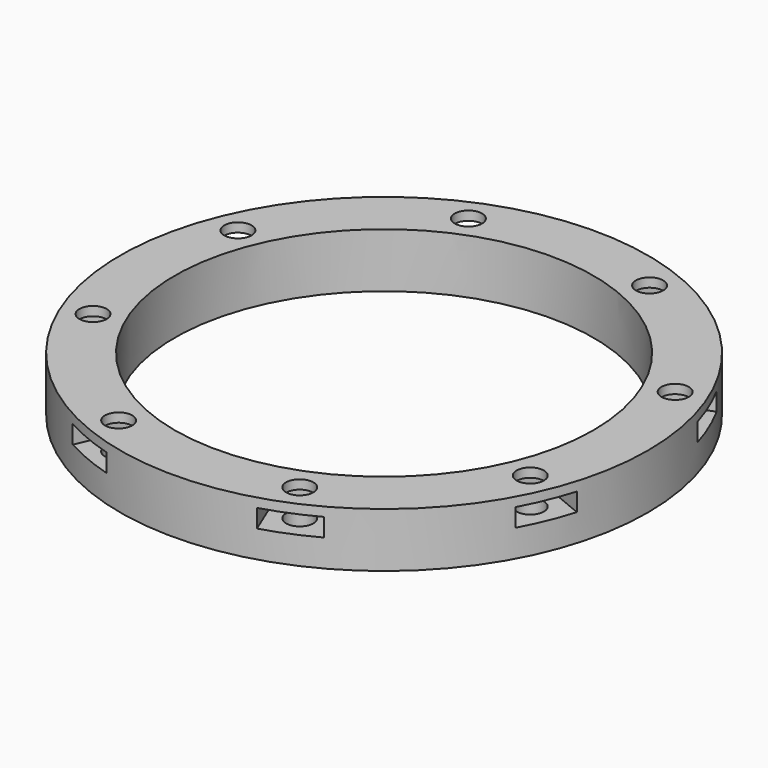
from build123d import *

# Parameters (mm, degrees)
BOX345_W                    = 6
BOX345_H                    = 6
BOX345_DEPTH                = 2
BOX341_W                    = 6
BOX341_H                    = 6
BOX341_DEPTH                = 2
BOX341_PLACEMENT_ANGLE      = 135
BOX346_W                    = 6
BOX346_H                    = 6
BOX346_DEPTH                = 2
BOX343_W                    = 6
BOX343_H                    = 6
BOX343_DEPTH                = 2
BOX343_PLACEMENT_ANGLE      = 225
BOX347_W                    = 6
BOX347_H                    = 6
BOX347_DEPTH                = 2
BOX344_W                    = 6
BOX344_H                    = 6
BOX344_DEPTH                = 2
BOX344_PLACEMENT_ANGLE      = 45
BOX340_W                    = 6
BOX340_H                    = 6
BOX340_DEPTH                = 2
BOX342_W                    = 6
BOX342_H                    = 6
BOX342_DEPTH                = 2
BOX342_PLACEMENT_ANGLE      = 45
COMPOUND569_PLACEMENT_ANGLE = 22.5
CYLINDER907_R               = 1.5
CYLINDER907_DEPTH           = 15
CYLINDER907_PLACEMENT_ANGLE = 45
CYLINDER906_R               = 1.5
CYLINDER906_DEPTH           = 15
CYLINDER905_R               = 1.5
CYLINDER905_DEPTH           = 15
CYLINDER905_PLACEMENT_ANGLE = 135
CYLINDER910_R               = 1.5
CYLINDER910_DEPTH           = 15
CYLINDER911_R               = 1.5
CYLINDER911_DEPTH           = 15
CYLINDER911_PLACEMENT_ANGLE = 225
CYLINDER912_R               = 1.5
CYLINDER912_DEPTH           = 15
CYLINDER908_R               = 1.5
CYLINDER908_DEPTH           = 15
CYLINDER908_PLACEMENT_ANGLE = 45
CYLINDER909_R               = 1.5
CYLINDER909_DEPTH           = 15
COMPOUND568_PLACEMENT_ANGLE = 22.5
TUBE010_R                   = 29
TUBE010_R_2                 = 23
TUBE010_DEPTH               = 6


with BuildPart() as krychle345:
    # Box345 → Box345 (new body)
    with BuildSketch(Plane(origin=(-23, -3, -13), x_dir=(0, 1, 0), z_dir=(0, 0, 1))):
        with Locations((3, 3)):
            Rectangle(BOX345_W, BOX345_H)
    extrude(amount=BOX345_DEPTH)


with BuildPart() as krychle341:
    # Box341 → Box341 (new body)
    with BuildSketch(Plane.XY):
        with Locations((3, 3)):
            Rectangle(BOX341_W, BOX341_H)
    extrude(amount=BOX341_DEPTH)


with BuildPart() as krychle341_1:
    # Box341 placement: moved
    add(krychle341.part.moved(Location((-14.142136, -18.384776, -13))).rotate(Axis((-14.142136, -18.384776, -13), (0, 0, 1)), BOX341_PLACEMENT_ANGLE))


with BuildPart() as krychle346:
    # Box346 → Box346 (new body)
    with BuildSketch(Plane(origin=(3, -23, -13), x_dir=(-1, 0, 0), z_dir=(0, 0, 1))):
        with Locations((3, 3)):
            Rectangle(BOX346_W, BOX346_H)
    extrude(amount=BOX346_DEPTH)


with BuildPart() as krychle343:
    # Box343 → Box343 (new body)
    with BuildSketch(Plane.XY):
        with Locations((3, 3)):
            Rectangle(BOX343_W, BOX343_H)
    extrude(amount=BOX343_DEPTH)


with BuildPart() as krychle343_1:
    # Box343 placement: moved
    add(krychle343.part.moved(Location((18.384776, -14.142136, -13))).rotate(Axis((18.384776, -14.142136, -13), (0, 0, 1)), BOX343_PLACEMENT_ANGLE))


with BuildPart() as krychle347:
    # Box347 → Box347 (new body)
    with BuildSketch(Plane(origin=(23, 3, -13), x_dir=(0, -1, 0), z_dir=(0, 0, 1))):
        with Locations((3, 3)):
            Rectangle(BOX347_W, BOX347_H)
    extrude(amount=BOX347_DEPTH)


with BuildPart() as krychle344:
    # Box344 → Box344 (new body)
    with BuildSketch(Plane.XY):
        with Locations((3, 3)):
            Rectangle(BOX344_W, BOX344_H)
    extrude(amount=BOX344_DEPTH)


with BuildPart() as krychle344_1:
    # Box344 placement: moved
    add(krychle344.part.moved(Location((14.142136, 18.384776, -13))).rotate(Axis((14.142136, 18.384776, -13), (0, 0, -1)), BOX344_PLACEMENT_ANGLE))


with BuildPart() as krychle340:
    # Box340 → Box340 (new body)
    with BuildSketch(Plane(origin=(-3, 23, -13), x_dir=(1, 0, 0), z_dir=(0, 0, 1))):
        with Locations((3, 3)):
            Rectangle(BOX340_W, BOX340_H)
    extrude(amount=BOX340_DEPTH)


with BuildPart() as compound569:
    # Box342 → Box342 (new body)
    with BuildSketch(Plane.XY):
        with Locations((3, 3)):
            Rectangle(BOX342_W, BOX342_H)
    extrude(amount=BOX342_DEPTH)


with BuildPart() as compound569_1:
    # Box342 placement: moved
    add(compound569.part.moved(Location((-18.384776, 14.142136, -13))).rotate(Axis((-18.384776, 14.142136, -13), (0, 0, 1)), BOX342_PLACEMENT_ANGLE))

    # Compound569: union Krychle345, Krychle341, Krychle346, Krychle343, Krychle347, Krychle344, Krychle340
    add(krychle345.part)
    add(krychle341_1.part)
    add(krychle346.part)
    add(krychle343_1.part)
    add(krychle347.part)
    add(krychle344_1.part)
    add(krychle340.part)


with BuildPart() as compound569_2:
    # Compound569 placement: moved
    add(compound569_1.part.rotate(Axis((0, 0, 0), (0, 0, 1)), COMPOUND569_PLACEMENT_ANGLE))


with BuildPart() as obj1:
    # Cylinder907 → Cylinder907 (new body)
    with BuildSketch(Plane.XY):
        Circle(CYLINDER907_R)
    extrude(amount=CYLINDER907_DEPTH)


with BuildPart() as obj1_1:
    # Cylinder907 placement: moved
    add(obj1.part.moved(Location((-18.384776, 18.384776, -20))).rotate(Axis((-18.384776, 18.384776, -20), (0, 0, 1)), CYLINDER907_PLACEMENT_ANGLE))


with BuildPart() as obj2:
    # Cylinder906 → Cylinder906 (new body)
    with BuildSketch(Plane(origin=(-26, 0, -20), x_dir=(0, 1, 0), z_dir=(0, 0, 1))):
        Circle(CYLINDER906_R)
    extrude(amount=CYLINDER906_DEPTH)


with BuildPart() as obj3:
    # Cylinder905 → Cylinder905 (new body)
    with BuildSketch(Plane.XY):
        Circle(CYLINDER905_R)
    extrude(amount=CYLINDER905_DEPTH)


with BuildPart() as obj3_1:
    # Cylinder905 placement: moved
    add(obj3.part.moved(Location((-18.384776, -18.384776, -20))).rotate(Axis((-18.384776, -18.384776, -20), (0, 0, 1)), CYLINDER905_PLACEMENT_ANGLE))


with BuildPart() as obj4:
    # Cylinder910 → Cylinder910 (new body)
    with BuildSketch(Plane(origin=(0, -26, -20), x_dir=(-1, 0, 0), z_dir=(0, 0, 1))):
        Circle(CYLINDER910_R)
    extrude(amount=CYLINDER910_DEPTH)


with BuildPart() as obj5:
    # Cylinder911 → Cylinder911 (new body)
    with BuildSketch(Plane.XY):
        Circle(CYLINDER911_R)
    extrude(amount=CYLINDER911_DEPTH)


with BuildPart() as obj5_1:
    # Cylinder911 placement: moved
    add(obj5.part.moved(Location((18.384776, -18.384776, -20))).rotate(Axis((18.384776, -18.384776, -20), (0, 0, 1)), CYLINDER911_PLACEMENT_ANGLE))


with BuildPart() as obj6:
    # Cylinder912 → Cylinder912 (new body)
    with BuildSketch(Plane(origin=(26, 0, -20), x_dir=(0, -1, 0), z_dir=(0, 0, 1))):
        Circle(CYLINDER912_R)
    extrude(amount=CYLINDER912_DEPTH)


with BuildPart() as obj7:
    # Cylinder908 → Cylinder908 (new body)
    with BuildSketch(Plane.XY):
        Circle(CYLINDER908_R)
    extrude(amount=CYLINDER908_DEPTH)


with BuildPart() as obj7_1:
    # Cylinder908 placement: moved
    add(obj7.part.moved(Location((18.384776, 18.384776, -20))).rotate(Axis((18.384776, 18.384776, -20), (0, 0, -1)), CYLINDER908_PLACEMENT_ANGLE))


with BuildPart() as compound568:
    # Cylinder909 → Cylinder909 (new body)
    with BuildSketch(Plane(origin=(0, 26, -20), x_dir=(1, 0, 0), z_dir=(0, 0, 1))):
        Circle(CYLINDER909_R)
    extrude(amount=CYLINDER909_DEPTH)

    # Compound568: union obj1, obj2, obj3, obj4, obj5, obj6, obj7
    add(obj1_1.part)
    add(obj2.part)
    add(obj3_1.part)
    add(obj4.part)
    add(obj5_1.part)
    add(obj6.part)
    add(obj7_1.part)


with BuildPart() as compound568_1:
    # Compound568 placement: moved
    add(compound568.part.rotate(Axis((0, 0, 0), (0, 0, 1)), COMPOUND568_PLACEMENT_ANGLE))


with BuildPart() as cut373:
    # Tube010 → Tube010 (new body)
    with BuildSketch(Plane.XY.offset(-16)):
        Circle(TUBE010_R)
        Circle(TUBE010_R_2, mode=Mode.SUBTRACT)
    extrude(amount=TUBE010_DEPTH)

    # Cut372: cut Compound568
    add(compound568_1.part, mode=Mode.SUBTRACT)

    # Cut373: cut Compound569
    add(compound569_2.part, mode=Mode.SUBTRACT)


with BuildPart() as cut373_1:
    # Cut373 placement: moved
    add(cut373.part.moved(Location((0, 0, 10))))


solid = cut373_1.part
